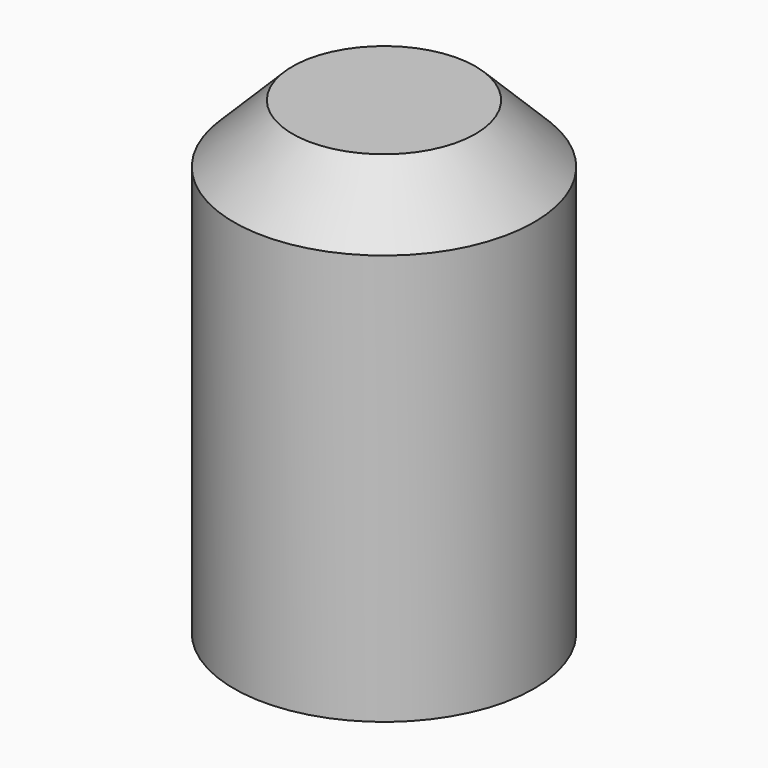
from build123d import *

# Parameters (mm, degrees)
F0_R     = 12.8
F0_R_2   = 3
F1_DEPTH = 40
F2_SIZE  = 5
F3_DEPTH = 10


with BuildPart() as f1:
    # F0 (on Top) → F1 (new body)
    with BuildSketch(Plane.XY):
        Circle(F0_R)
        Circle(F0_R_2, mode=Mode.SUBTRACT)
        Circle(F0_R_2)
    extrude(amount=F1_DEPTH)

    # F2
    f2_edges = [f1.edges().sort_by_distance(p)[0] for p in [
        (-12.8, 0, 40),
    ]]
    chamfer(f2_edges, length=F2_SIZE)

    # F0 (on Top) → F3 (cut)
    with BuildSketch(Plane.XY):
        Circle(F0_R_2)
    extrude(amount=F3_DEPTH, mode=Mode.SUBTRACT)


solid = f1.part
